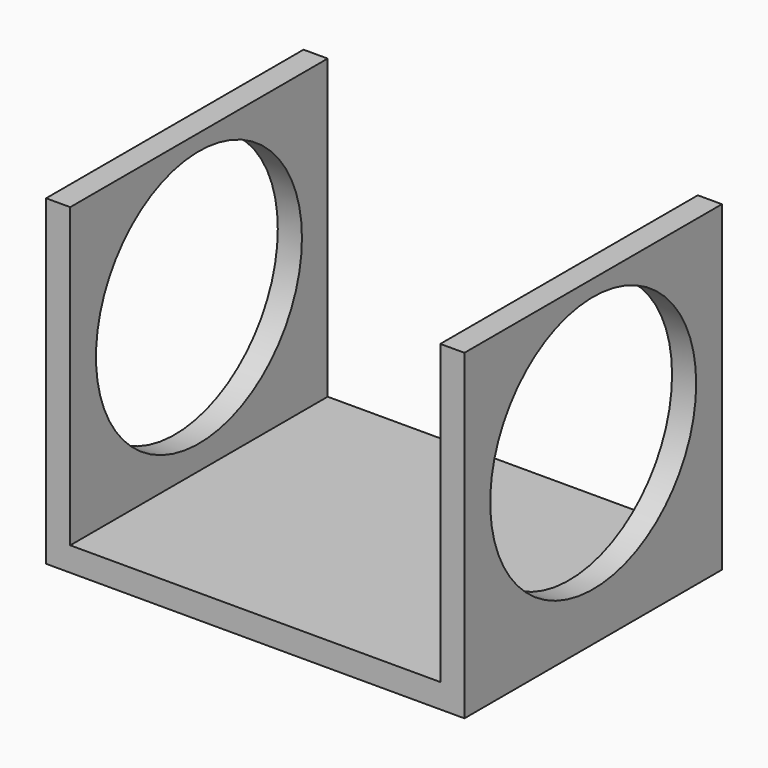
from build123d import *

# Parameters (mm, degrees)
F0_W     = 33.02
F0_H     = 25.4
F1_DEPTH = 25.4
F2_R     = 10.16
F3_DEPTH = 50.8
F4_W     = 29.21
F4_H     = 23.495
F5_DEPTH = 25.4


with BuildPart() as f1:
    # F0 (on Top) → F1 (new body)
    with BuildSketch(Plane.XY):
        with Locations((16.51, 12.7)):
            Rectangle(F0_W, F0_H)
    extrude(amount=F1_DEPTH)

    # F2 (on face) → F3 (cut)
    with BuildSketch(Plane.YZ.offset(33.02)):
        with Locations((12.7, 13.97)):
            Circle(F2_R)
    extrude(amount=-F3_DEPTH, mode=Mode.SUBTRACT)

    # F4 (on face) → F5 (cut)
    with BuildSketch(Plane.XZ):
        with Locations((16.51, 13.6525)):
            Rectangle(F4_W, F4_H)
    extrude(amount=-F5_DEPTH, mode=Mode.SUBTRACT)


solid = f1.part
